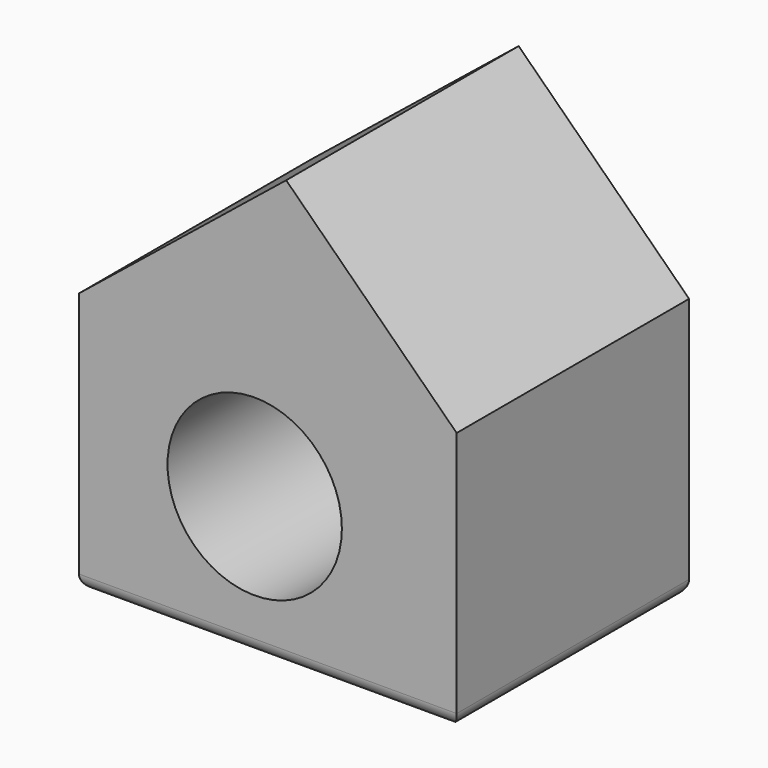
from build123d import *

# Parameters (mm, degrees)
F0_W     = 66.04
F0_H     = 45.72
F0_R     = 15.24
F1_DEPTH = 50.8
F2_R     = 2.54


with BuildPart() as f1:
    # F0 (on Front) → F1 (new body)
    with BuildSketch(Plane.XZ):
        Polygon((36.239596, 29.20575), (0, 0), (66.04, 0), align=None)
        with Locations((33.02, -22.86)):
            Rectangle(F0_W, F0_H)
        with Locations((30.734847, -21.254448)):
            Circle(F0_R, mode=Mode.SUBTRACT)
    extrude(amount=F1_DEPTH)

    # F2
    f2_edges = [f1.edges().sort_by_distance(p)[0] for p in [
        (33.02, -50.8, -45.72),
        (66.04, -25.4, -45.72),
        (33.02, 0, -45.72),
        (0, -25.4, -45.72),
    ]]
    fillet(f2_edges, radius=F2_R)


solid = f1.part
